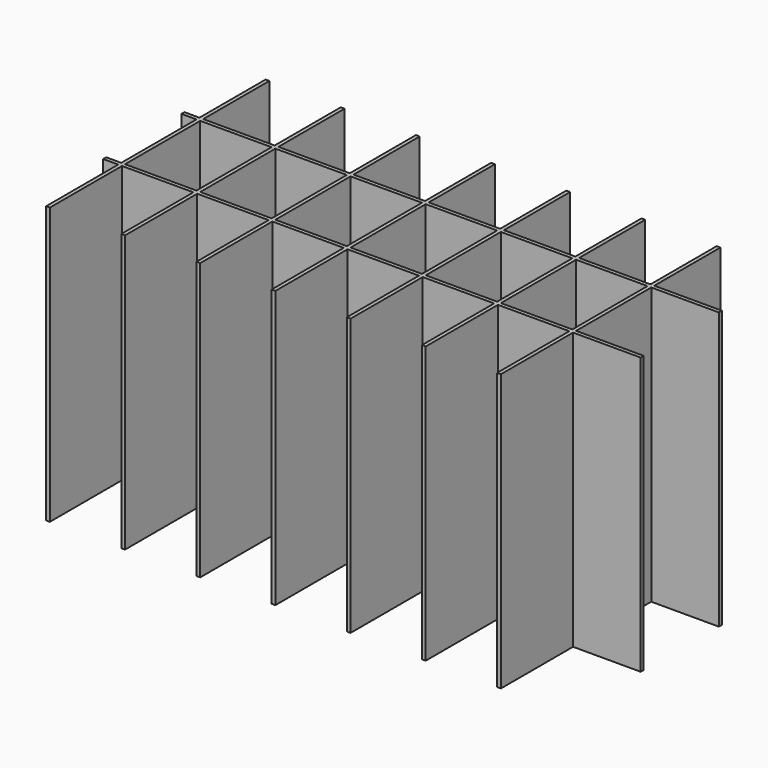
from build123d import *

# Parameters (mm, degrees)
BOX029_W     = 0.5
BOX029_H     = 36.5
BOX029_DEPTH = 36.8
BOX030_W     = 0.5
BOX030_H     = 36.5
BOX030_DEPTH = 36.8
BOX034_W     = 71.5
BOX034_H     = 0.5
BOX034_DEPTH = 36.8
BOX032_W     = 0.5
BOX032_H     = 36.5
BOX032_DEPTH = 36.8
BOX028_W     = 0.5
BOX028_H     = 36.5
BOX028_DEPTH = 36.8
BOX027_W     = 0.5
BOX027_H     = 36.5
BOX027_DEPTH = 36.8
BOX031_W     = 0.5
BOX031_H     = 36.5
BOX031_DEPTH = 36.8
BOX033_W     = 71.5
BOX033_H     = 0.5
BOX033_DEPTH = 36.8
BOX026_W     = 0.5
BOX026_H     = 36.5
BOX026_DEPTH = 36.8


with BuildPart() as box029:
    # Box029 → Box029 (new body)
    with BuildSketch(Plane(origin=(96.5, 85.25, -23), x_dir=(1, 0, 0), z_dir=(0, 0, 1))):
        with Locations((0.25, 18.25)):
            Rectangle(BOX029_W, BOX029_H)
    extrude(amount=BOX029_DEPTH)


with BuildPart() as box030:
    # Box030 → Box030 (new body)
    with BuildSketch(Plane(origin=(86.5, 85.25, -23), x_dir=(1, 0, 0), z_dir=(0, 0, 1))):
        with Locations((0.25, 18.25)):
            Rectangle(BOX030_W, BOX030_H)
    extrude(amount=BOX030_DEPTH)


with BuildPart() as box034:
    # Box034 → Box034 (new body)
    with BuildSketch(Plane(origin=(64.5, 110.25, -23), x_dir=(1, 0, 0), z_dir=(0, 0, 1))):
        with Locations((35.75, 0.25)):
            Rectangle(BOX034_W, BOX034_H)
    extrude(amount=BOX034_DEPTH)


with BuildPart() as box032:
    # Box032 → Box032 (new body)
    with BuildSketch(Plane(origin=(66.5, 85.25, -23), x_dir=(1, 0, 0), z_dir=(0, 0, 1))):
        with Locations((0.25, 18.25)):
            Rectangle(BOX032_W, BOX032_H)
    extrude(amount=BOX032_DEPTH)


with BuildPart() as box028:
    # Box028 → Box028 (new body)
    with BuildSketch(Plane(origin=(106.5, 85.25, -23), x_dir=(1, 0, 0), z_dir=(0, 0, 1))):
        with Locations((0.25, 18.25)):
            Rectangle(BOX028_W, BOX028_H)
    extrude(amount=BOX028_DEPTH)


with BuildPart() as box027:
    # Box027 → Box027 (new body)
    with BuildSketch(Plane(origin=(116.5, 85.25, -23), x_dir=(1, 0, 0), z_dir=(0, 0, 1))):
        with Locations((0.25, 18.25)):
            Rectangle(BOX027_W, BOX027_H)
    extrude(amount=BOX027_DEPTH)


with BuildPart() as box031:
    # Box031 → Box031 (new body)
    with BuildSketch(Plane(origin=(76.5, 85.25, -23), x_dir=(1, 0, 0), z_dir=(0, 0, 1))):
        with Locations((0.25, 18.25)):
            Rectangle(BOX031_W, BOX031_H)
    extrude(amount=BOX031_DEPTH)


with BuildPart() as box033:
    # Box033 → Box033 (new body)
    with BuildSketch(Plane(origin=(64.5, 97.25, -23), x_dir=(1, 0, 0), z_dir=(0, 0, 1))):
        with Locations((35.75, 0.25)):
            Rectangle(BOX033_W, BOX033_H)
    extrude(amount=BOX033_DEPTH)


with BuildPart() as support:
    # Box026 → Box026 (new body)
    with BuildSketch(Plane(origin=(126.5, 85.25, -23), x_dir=(1, 0, 0), z_dir=(0, 0, 1))):
        with Locations((0.25, 18.25)):
            Rectangle(BOX026_W, BOX026_H)
    extrude(amount=BOX026_DEPTH)

    # Fusion019: union Box029, Box030, Box034, Box032, Box028, Box027, Box031, Box033
    add(box029.part)
    add(box030.part)
    add(box034.part)
    add(box032.part)
    add(box028.part)
    add(box027.part)
    add(box031.part)
    add(box033.part)


solid = support.part
